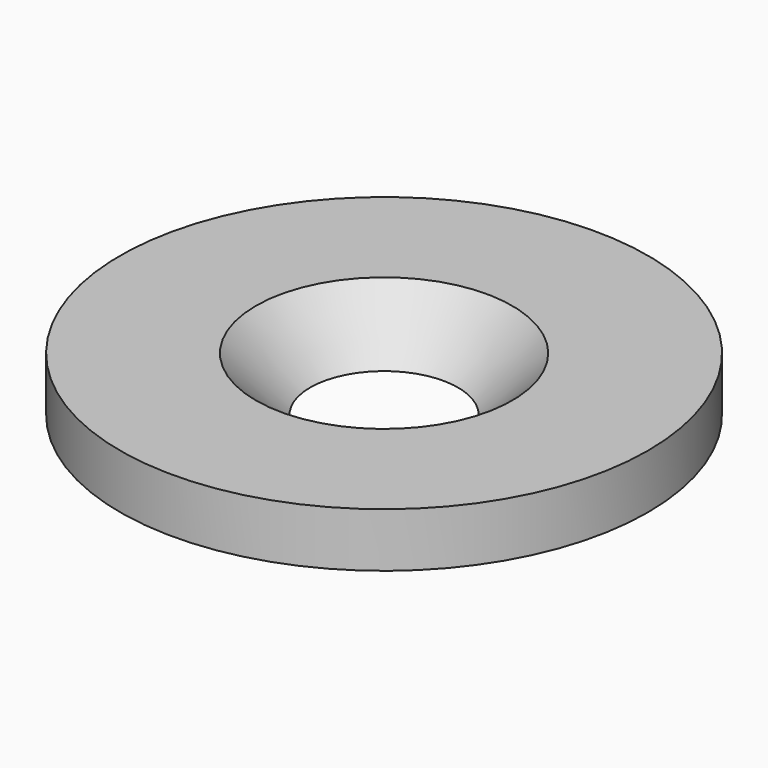
from build123d import *

# Parameters (mm, degrees)
F0_R           = 8.75
F1_DEPTH       = 1.8
F3_D           = 4
F3_DEPTH       = 10
F3_CSINK_D     = 8.5
F3_CSINK_ANGLE = 90


with BuildPart() as f1:
    # F0 (on Top) → F1 (new body)
    with BuildSketch(Plane.XY):
        Circle(F0_R)
    extrude(amount=F1_DEPTH)

    # F3
    with Locations(Plane.XY.offset(1.8)):
        with Locations((0, 0)):
            CounterSinkHole(F3_D / 2, F3_CSINK_D / 2, depth=F3_DEPTH, counter_sink_angle=F3_CSINK_ANGLE)


solid = f1.part
